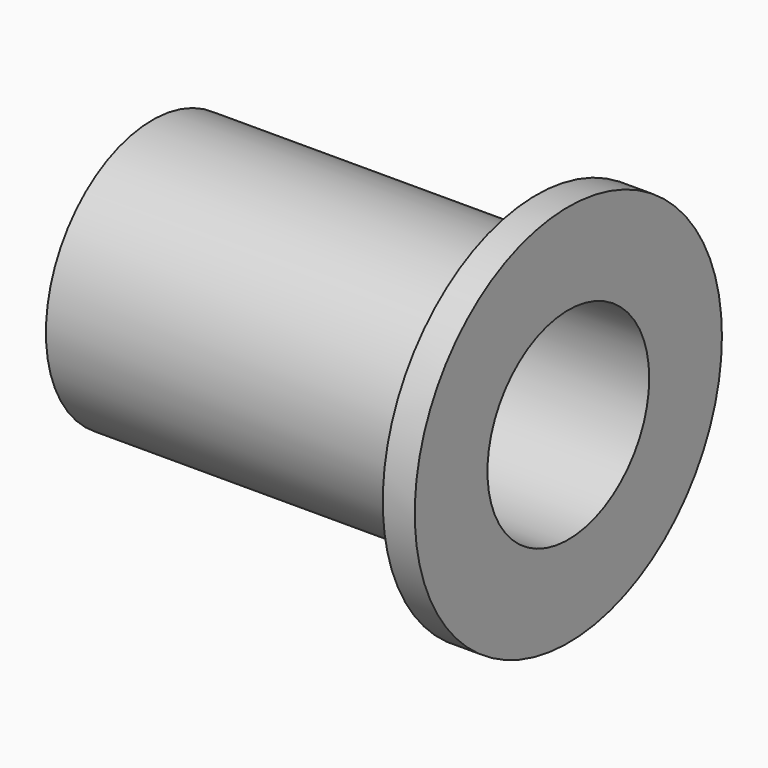
from build123d import *

# Parameters (mm, degrees)
F0_R     = 13.208
F0_R_2   = 10.033
F1_DEPTH = 38.1
F2_R     = 19.05
F2_R_2   = 10.033
F3_DEPTH = 3.175


with BuildPart() as f1:
    # F0 (on Right) → F1 (new body)
    with BuildSketch(Plane.YZ):
        Circle(F0_R)
        Circle(F0_R_2, mode=Mode.SUBTRACT)
    extrude(amount=-F1_DEPTH)

    # F2 (on Right) → F3 (join)
    with BuildSketch(Plane.YZ):
        Circle(F2_R)
        Circle(F2_R_2, mode=Mode.SUBTRACT)
    extrude(amount=F3_DEPTH)


solid = f1.part
